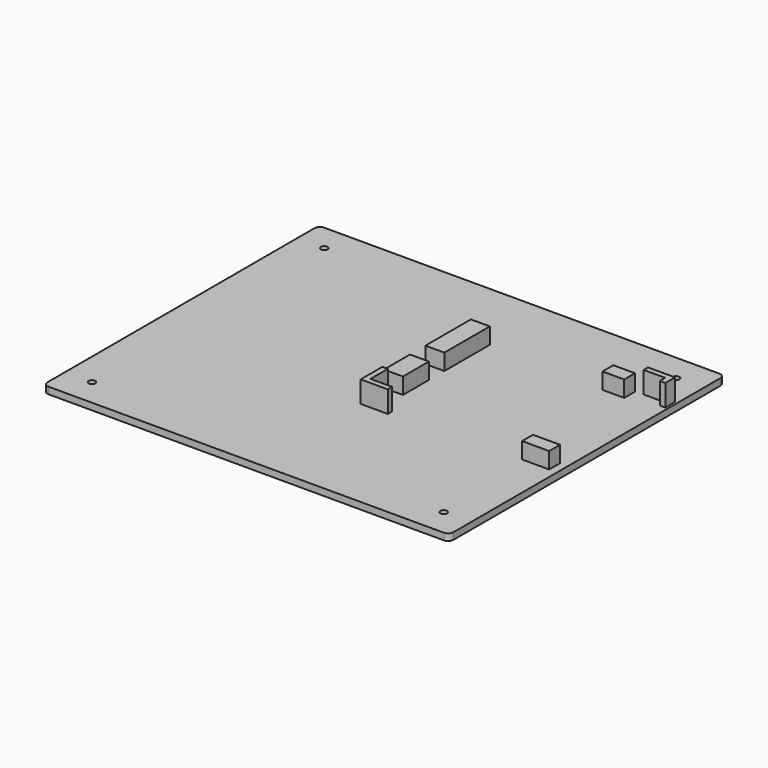
from build123d import *

# Parameters (mm, degrees)
F0_W      = 150
F0_H      = 127.279
F1_DEPTH  = 2.5
F2_R      = 2.5
F2_R_2    = 2.718932
F2_R_3    = 2.518659
F3_DEPTH  = 1
F4_R      = 1.25
F5_DEPTH  = 1.501
F6_R      = 2
F8_DEPTH  = 8
F9_W      = 7
F9_H      = 12
F9_H_2    = 21
F9_W_2    = 8
F9_H_3    = 5
F10_DEPTH = 6
F11_W     = 10
F11_H     = 5
F12_DEPTH = 6


with BuildPart() as f1:
    # F0 (on Top) → F1 (new body)
    with BuildSketch(Plane.XY):
        with Locations((75, 63.6395)):
            Rectangle(F0_W, F0_H)
    extrude(amount=F1_DEPTH)

    # F2 (on face) → F3 (cut)
    with BuildSketch(Plane(origin=(0, 0, 0), x_dir=(1, 0, 0), z_dir=(0, 0, -1))):
        with Locations((10, -10)):
            Circle(F2_R)
        with Locations((140, -10)):
            Circle(F2_R)
        with Locations((10, -117.279)):
            Circle(F2_R_2)
        with Locations((140, -117.279)):
            Circle(F2_R_3)
    extrude(amount=-F3_DEPTH, mode=Mode.SUBTRACT)

    # F4 (on face) → F5 (cut, through all)
    with BuildSketch(Plane(origin=(0, 0, 1), x_dir=(1, 0, 0), z_dir=(0, 0, -1))):
        with Locations((10, -10)):
            Circle(F4_R)
        with Locations((10, -117.279)):
            Circle(F4_R)
        with Locations((140, -117.279)):
            Circle(F4_R)
        with Locations((140, -10)):
            Circle(F4_R)
    extrude(amount=-F5_DEPTH, mode=Mode.SUBTRACT)

    # F6
    f6_edges = [f1.edges().sort_by_distance(p)[0] for p in [
        (150, 0, 1.25),
        (0, 0, 1.25),
        (150, 127.279, 1.25),
        (0, 127.279, 1.25),
    ]]
    fillet(f6_edges, radius=F6_R)

    # F7 (on face) → F8 (join)
    with BuildSketch(Plane.XY.offset(2.5)):
        Polygon((89.045, 49.829), (81.045, 49.829), (81.045, 57.829), (79.045, 57.829), (79.045, 47.829), (89.045, 47.829), align=None)
        Polygon((139.095, 103.454), (147.095, 103.454), (147.095, 100.954), (149.095, 100.954), (149.095, 105.454), (139.095, 105.454), align=None)
    extrude(amount=F8_DEPTH)

    # F9 (on face) → F10 (join)
    with BuildSketch(Plane.XY.offset(2.5)):
        with Locations((81.545, 65.829)):
            Rectangle(F9_W, F9_H)
        with Locations((81.545, 89.454)):
            Rectangle(F9_W, F9_H_2)
        with Locations((132.045, 100.779)):
            Rectangle(F9_W_2, F9_H_3)
    extrude(amount=F10_DEPTH)

    # F11 (on face) → F12 (join)
    with BuildSketch(Plane.XY.offset(2.5)):
        with Locations((142.095, 52.329)):
            Rectangle(F11_W, F11_H)
    extrude(amount=F12_DEPTH)


solid = f1.part
